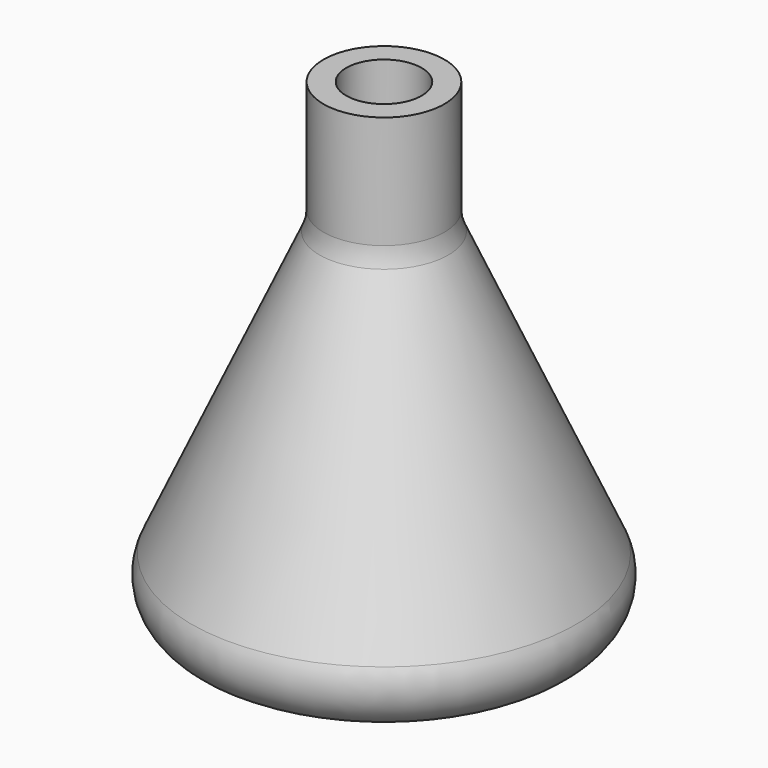
from build123d import *

# Parameters (mm, degrees)
F2_R = 5.08
F3_T = -2.54


with BuildPart() as f1:
    # F0 (on Front) → F1 (revolve)
    with BuildSketch(Plane.XZ):
        Polygon((-6.754948, 39.844375), (-24.768133, 0), (0, 0), (0, 53.550061), (-6.754948, 53.550061), align=None)
    revolve(axis=Axis((0, 0, 26.77503), (0, 0, 1)))

    # F2
    f2_edges = [f1.edges().sort_by_distance(p)[0] for p in [
        (6.754948, 0, 39.844375),
        (24.768133, 0, 0),
        (-15.76154, 0, 19.922188),
    ]]
    fillet(f2_edges, radius=F2_R)

    # F3
    f3_openings = [f1.faces().sort_by_distance(p)[0] for p in [
        (0, 0, 53.550061),
    ]]
    offset(amount=F3_T, openings=f3_openings)


solid = f1.part
